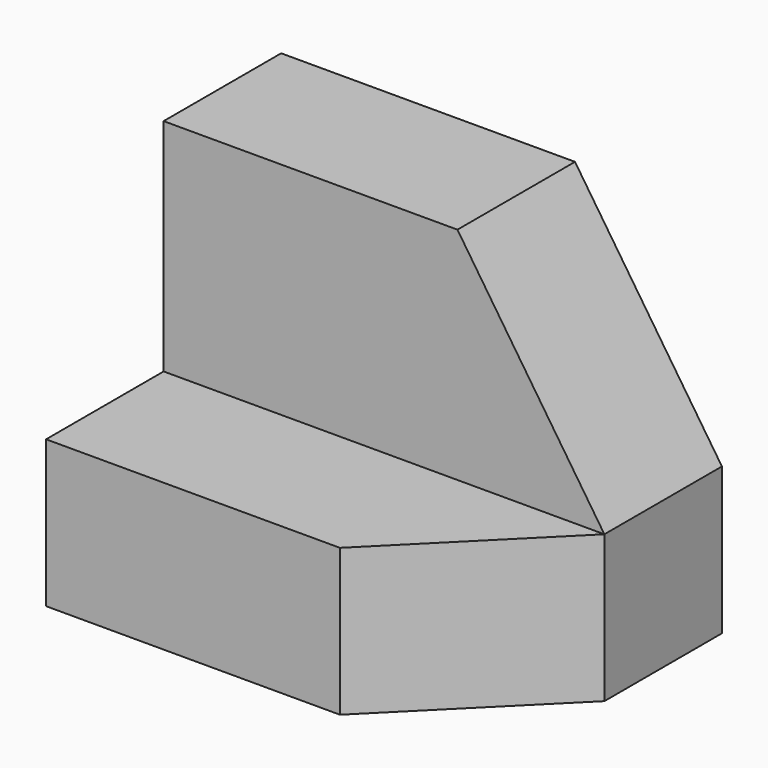
from build123d import *

# Parameters (mm, degrees)
F0_W     = 38.1
F0_H     = 31.75
F1_DEPTH = 25.4
F2_W     = 12.7
F2_H     = 19.05
F3_DEPTH = 38.1
F5_DEPTH = 25.4
F7_DEPTH = 25.4


with BuildPart() as f1:
    # F0 (on Front) → F1 (new body)
    with BuildSketch(Plane.XZ):
        with Locations((-42.270253, 41.759918)):
            Rectangle(F0_W, F0_H)
    extrude(amount=F1_DEPTH)

    # F2 (on face) → F3 (cut)
    with BuildSketch(Plane(origin=(-61.320253, 0, 0), x_dir=(0, -1, 0), z_dir=(-1, 0, 0))):
        with Locations((19.05, 48.109918)):
            Rectangle(F2_W, F2_H)
    extrude(amount=-F3_DEPTH, mode=Mode.SUBTRACT)

    # F4 (on face) → F5 (cut)
    with BuildSketch(Plane.XZ.offset(12.7)):
        Polygon((-23.220253, 57.634918), (-35.920253, 57.634918), (-23.220253, 38.584918), align=None)
    extrude(amount=-F5_DEPTH, mode=Mode.SUBTRACT)

    # F6 (on face) → F7 (cut)
    with BuildSketch(Plane.XY.offset(38.584918)):
        Polygon((-23.220253, -25.4), (-23.220253, -12.7), (-35.920253, -25.4), align=None)
    extrude(amount=-F7_DEPTH, mode=Mode.SUBTRACT)


solid = f1.part
